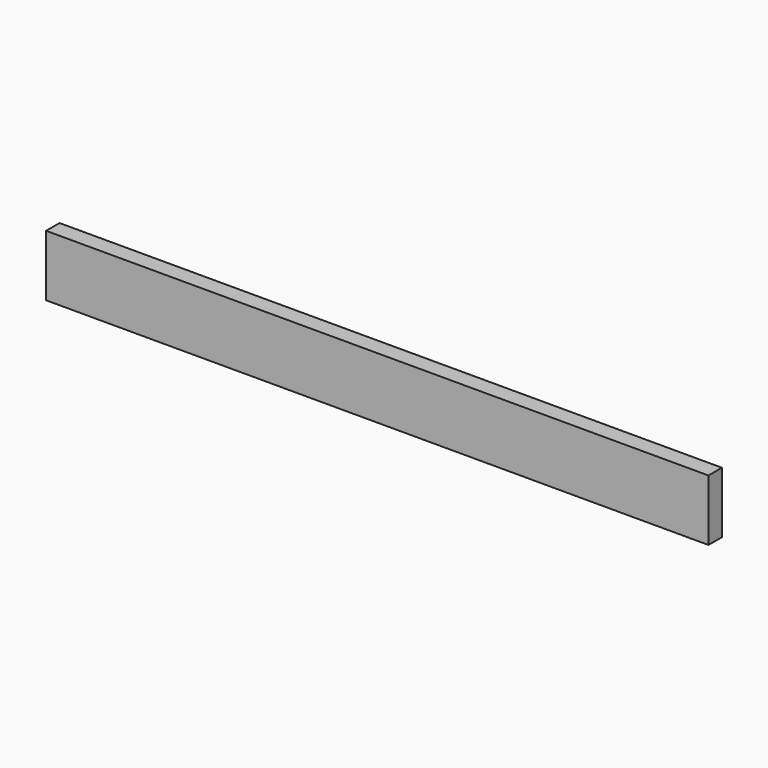
from build123d import *

# Parameters (mm, degrees)
BOX_W     = 866
BOX_H     = 22
BOX_DEPTH = 80


with BuildPart() as part:
    # Box → Box (new body)
    with BuildSketch(Plane.XY):
        with Locations((433, 11)):
            Rectangle(BOX_W, BOX_H)
    extrude(amount=BOX_DEPTH)


solid = part.part
